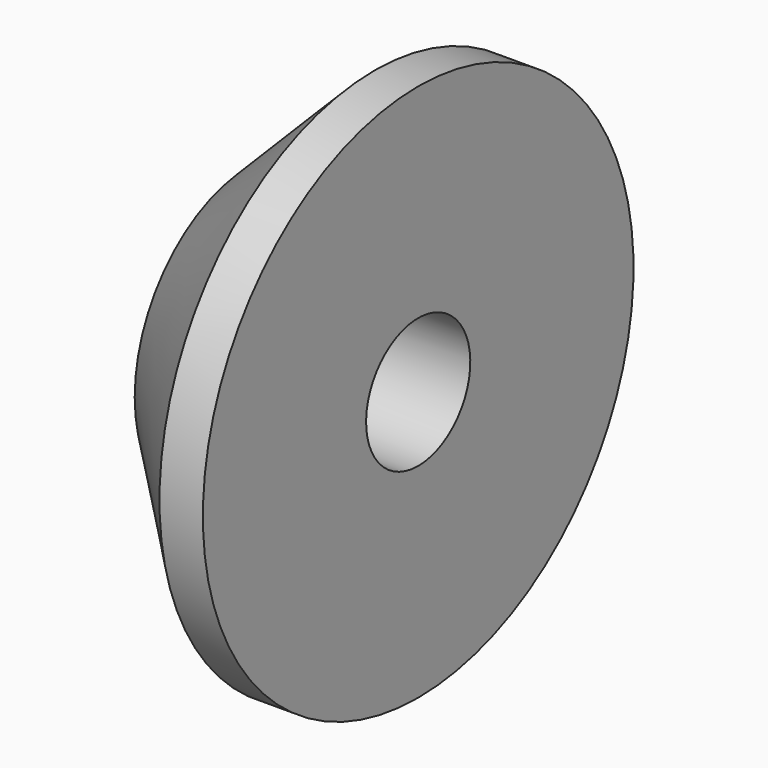
from build123d import *

# Parameters (mm, degrees)
CYLINDER_R           = 1.5
CYLINDER_DEPTH       = 10
CYLINDER_PITCH_ANGLE = 90


with BuildPart() as screwcutout:
    # Cylinder → Cylinder (new body)
    with BuildSketch(Plane.XY):
        Circle(CYLINDER_R)
    extrude(amount=CYLINDER_DEPTH)


with BuildPart() as screwcutout_1:
    # Cylinder pitch: moved
    add(screwcutout.part.rotate(Axis((0, 0, 0), (0, 1, 0)), CYLINDER_PITCH_ANGLE))


with BuildPart() as screwcutout_2:
    # Cylinder placement: moved
    add(screwcutout_1.part)


with BuildPart() as innerrace001:
    # Sketch002 → Revolution002 (revolve)
    with BuildSketch(Plane.XZ):
        Polygon((0, 3.346519), (2.853732, 6.200251), (3.853732, 6.200251), (3.853732, 0), (0, 0), align=None)
    revolve(axis=Axis((0, 0, 0), (1, 0, 0)))

    # Cut002: cut ScrewCutout
    add(screwcutout_2.part, mode=Mode.SUBTRACT)


solid = innerrace001.part
